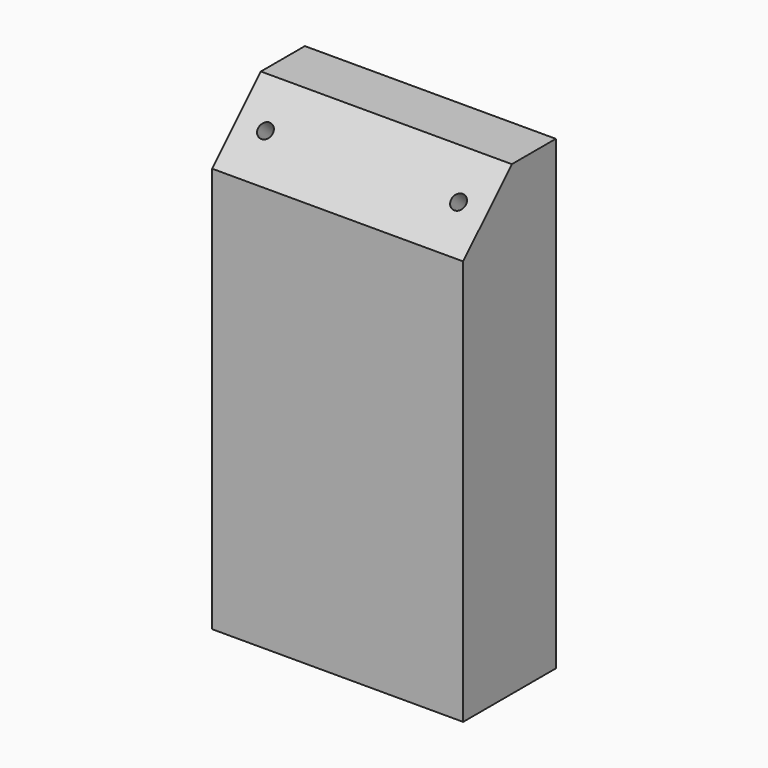
from build123d import *

# Parameters (mm, degrees)
F0_W           = 82.55
F0_H           = 153.3652
F1_DEPTH       = 38.1
F2_SIZE2       = 20.0152
F2_SIZE        = 20.0152
F5_D           = 4.826
F5_DEPTH       = 12.7
F5_TIP         = 1.4498766737
F5_ON_F4_D     = 4.826
F5_ON_F4_DEPTH = 12.7
F5_ON_F4_TIP   = 1.4498766737


with BuildPart() as f1:
    # F0 (on Front) → F1 (new body)
    with BuildSketch(Plane.XZ):
        with Locations((41.275, 76.6826)):
            Rectangle(F0_W, F0_H)
    extrude(amount=F1_DEPTH)

    # F2
    f2_edges = [f1.edges().sort_by_distance(p)[0] for p in [
        (41.275, -38.1, 153.3652),
    ]]
    chamfer(f2_edges, length=F2_SIZE, length2=F2_SIZE2)

    # F5
    with Locations(Plane(origin=(0, -85.725, 85.725), x_dir=(1, 0, 0), z_dir=(0, -0.7071067812, 0.7071067812))):
        with Locations((9.525, 81.5048045548), (73.025, 81.5048045548)):
            Hole(F5_D / 2, depth=F5_DEPTH)
            with Locations((0, 0, -(F5_DEPTH + F5_TIP / 2))):  # 118° drill point
                Cone(0, F5_D / 2, F5_TIP, mode=Mode.SUBTRACT)

    # F5 on F4
    with Locations(Plane(origin=(0, 0, 0), x_dir=(1, 0, 0), z_dir=(0, 0, -1))):
        with Locations((9.525, 19.05), (73.025, 19.05)):
            Hole(F5_ON_F4_D / 2, depth=F5_ON_F4_DEPTH)
            with Locations((0, 0, -(F5_ON_F4_DEPTH + F5_ON_F4_TIP / 2))):  # 118° drill point
                Cone(0, F5_ON_F4_D / 2, F5_ON_F4_TIP, mode=Mode.SUBTRACT)


solid = f1.part
